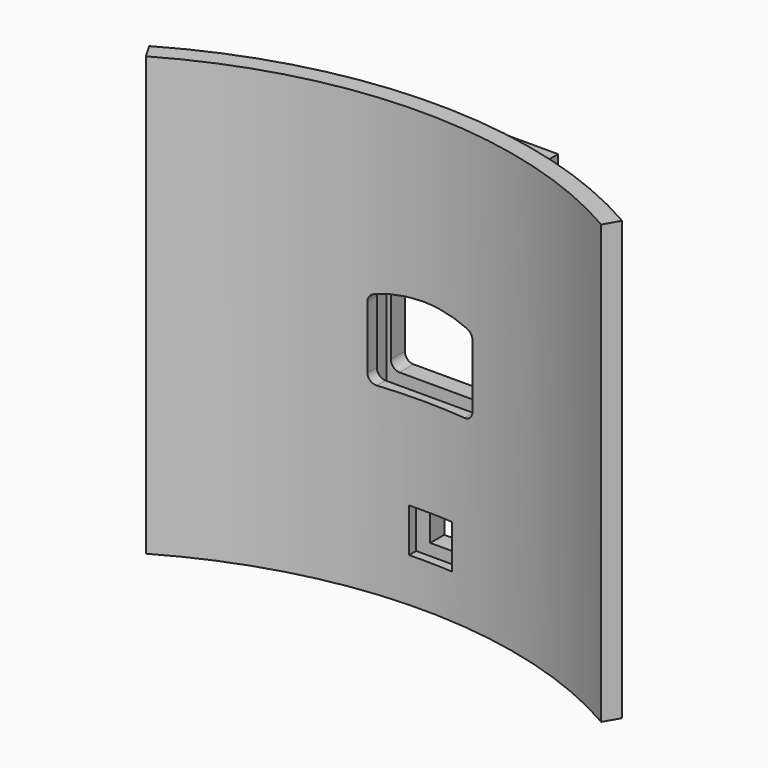
from build123d import *

# Parameters (mm, degrees)
EXTRUDE_DEPTH               = 6
EXTRUDE001_DEPTH            = 6
THICKNESS_T                 = 1
BOX002_W                    = 20
BOX002_H                    = 2
BOX002_DEPTH                = 43
BOX_W                       = 5
BOX_H                       = 20
BOX_DEPTH                   = 5
BOX001_W                    = 20
BOX001_H                    = 4
BOX001_DEPTH                = 45
CYLINDER001_W               = 52
CYLINDER001_H               = 50
CYLINDER001_ANGLE           = 60
CYLINDER001_PLACEMENT_ANGLE = 60
CYLINDER_W                  = 54
CYLINDER_H                  = 50
CYLINDER_ANGLE              = 60
CYLINDER_PLACEMENT_ANGLE    = 60


with BuildPart() as extrude_body:
    with BuildSketch(Plane(origin=(8.5, 45, 6), x_dir=(1, 0, 0), z_dir=(0, 1, 0))):
        with BuildLine():
            Line((5, 4), (-5, 4))
            Line((-5, 4), (-5, -3.142136))
            ThreePointArc((-5, -3.142136), (-2.53653, -3.783978), (0, -4))
            ThreePointArc((0, -4), (2.53653, -3.783978), (5, -3.142136))
            Line((5, -3.142136), (5, 4))
        make_face()
    extrude(amount=EXTRUDE_DEPTH)


with BuildPart() as extrude001:
    with BuildSketch(Plane(origin=(8.5, 45, 6), x_dir=(1, 0, 0), z_dir=(0, 1, 0))):
        with BuildLine():
            Line((5, 4), (-5, 4))
            Line((-5, 4), (-5, -3.142136))
            ThreePointArc((-5, -3.142136), (-2.53653, -3.783978), (0, -4))
            ThreePointArc((0, -4), (2.53653, -3.783978), (5, -3.142136))
            Line((5, -3.142136), (5, 4))
        make_face()
    extrude(amount=EXTRUDE001_DEPTH)


with BuildPart() as fusion002:
    # Thickness base: copy of Extrude body
    add(extrude_body.part)

    # Thickness
    thickness_openings = [fusion002.faces().sort_by_distance(p)[0] for p in [
        (8.5, 51, 5.862901),
    ]]
    offset(amount=THICKNESS_T, openings=thickness_openings)

    # Fusion002: union Extrude body, Extrude001
    add(extrude_body.part)
    add(extrude001.part)


with BuildPart() as fusion002_1:
    # Fusion002 placement: moved
    add(fusion002.part.moved(Location((0, -3, 20))))


with BuildPart() as slot:
    # Box002 → Box002 (new body)
    with BuildSketch(Plane(origin=(2, 44, 3.5), x_dir=(1, 0, 0), z_dir=(0, 0, 1))):
        with Locations((10, 1)):
            Rectangle(BOX002_W, BOX002_H)
    extrude(amount=BOX002_DEPTH)


with BuildPart() as pin_opening:
    # Box → Box (new body)
    with BuildSketch(Plane(origin=(7, 42, 5), x_dir=(1, 0, 0), z_dir=(0, 0, 1))):
        with Locations((2.5, 10)):
            Rectangle(BOX_W, BOX_H)
    extrude(amount=BOX_DEPTH)


with BuildPart() as latch:
    # Box001 → Box001 (new body)
    with BuildSketch(Plane(origin=(0, 44, 2.5), x_dir=(1, 0, 0), z_dir=(0, 0, 1))):
        with Locations((10, 2)):
            Rectangle(BOX001_W, BOX001_H)
    extrude(amount=BOX001_DEPTH)


with BuildPart() as bottle_wall001:
    # Cylinder001 → Cylinder001 (revolve)
    with BuildSketch(Plane.XZ):
        with Locations((26, 25)):
            Rectangle(CYLINDER001_W, CYLINDER001_H)
    revolve(axis=Axis((0, 0, 0), (0, 0, 1)), revolution_arc=CYLINDER001_ANGLE)


with BuildPart() as bottle_wall001_1:
    # Cylinder001 placement: moved
    add(bottle_wall001.part.moved(Location((8.5, -7, 0))).rotate(Axis((8.5, -7, 0), (0, 0, 1)), CYLINDER001_PLACEMENT_ANGLE))


with BuildPart() as cut003:
    # Cylinder → Cylinder (revolve)
    with BuildSketch(Plane.XZ):
        with Locations((27, 25)):
            Rectangle(CYLINDER_W, CYLINDER_H)
    revolve(axis=Axis((0, 0, 0), (0, 0, 1)), revolution_arc=CYLINDER_ANGLE)


with BuildPart() as cut003_1:
    # Cylinder placement: moved
    add(cut003.part.moved(Location((8.5, -7, 0))).rotate(Axis((8.5, -7, 0), (0, 0, 1)), CYLINDER_PLACEMENT_ANGLE))

    # Cut: cut bottle_wall001
    add(bottle_wall001_1.part, mode=Mode.SUBTRACT)


with BuildPart() as cut003_2:
    # Cut placement: moved
    add(cut003_1.part.moved(Location((0, -2, 0))))

    # Fusion: union latch
    add(latch.part)

    # Fusion001: union latch
    add(latch.part)

    # Cut001: cut pin_opening
    add(pin_opening.part, mode=Mode.SUBTRACT)

    # Cut002: cut slot
    add(slot.part, mode=Mode.SUBTRACT)

    # Cut003: cut Fusion002
    add(fusion002_1.part, mode=Mode.SUBTRACT)


solid = cut003_2.part
